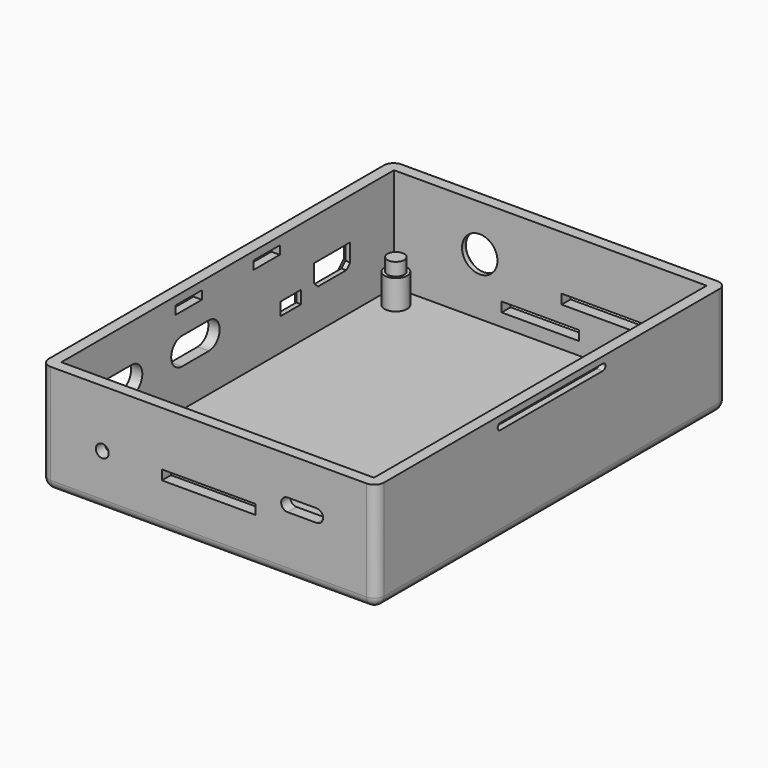
from build123d import *

# Parameters (mm, degrees)
SKETCH_W        = 52
SKETCH_H        = 68
PAD_DEPTH       = 17
SKETCH001_W     = 48.5
SKETCH001_H     = 64.5
POCKET_DEPTH    = 16
SKETCH002_R     = 1.75
PAD001_DEPTH    = 4.55
SKETCH003_R     = 1.3
PAD002_DEPTH    = 6.55
SKETCH004_W     = 4
SKETCH004_H     = 2
POCKET001_DEPTH = 5
POCKET002_DEPTH = 5
SKETCH006_R     = 2.75
SKETCH006_W     = 12
SKETCH006_H     = 1.5
SKETCH006_W_2   = 15
POCKET003_DEPTH = 5
SKETCH007_R     = 1
SKETCH007_W     = 14.5
SKETCH007_H     = 1.5
POCKET004_DEPTH = 5
POCKET006_DEPTH = 1
SKETCH008_W     = 5.1
SKETCH008_H     = 1.3
POCKET007_DEPTH = 1.3
CHAMFER_SIZE    = 1
FILLET_R        = 1.5


with BuildPart() as part:
    # Sketch → Pad (new body)
    with BuildSketch(Plane.XY):
        with Locations((24.25, 32.25)):
            Rectangle(SKETCH_W, SKETCH_H)
    extrude(amount=PAD_DEPTH)

    # Sketch001 → Pocket (cut)
    with BuildSketch(Plane.XY.offset(17)):
        with Locations((24.25, 32.25)):
            Rectangle(SKETCH001_W, SKETCH001_H)
    extrude(amount=-POCKET_DEPTH, mode=Mode.SUBTRACT)

    # Sketch002 (on Face11 of Pocket) → Pad001 (join)
    with BuildSketch(Plane.XY.offset(1)):
        with Locations((3.05, 3.05)):
            Circle(SKETCH002_R)
        with Locations((3.05, 61.05)):
            Circle(SKETCH002_R)
        with Locations((45.05, 3.05)):
            Circle(SKETCH002_R)
        with Locations((45.05, 61.05)):
            Circle(SKETCH002_R)
    extrude(amount=PAD001_DEPTH)

    # Sketch003 (on Face11 of Pad001) → Pad002 (join)
    with BuildSketch(Plane.XY.offset(1)):
        with Locations((3.05, 61.05)):
            Circle(SKETCH003_R)
        with Locations((45.05, 61.05)):
            Circle(SKETCH003_R)
        with Locations((3.05, 3.05)):
            Circle(SKETCH003_R)
        with Locations((45.05, 3.05)):
            Circle(SKETCH003_R)
    extrude(amount=PAD002_DEPTH)

    # Sketch004 (on Face2 of Pad002) → Pocket001 (cut)
    with BuildSketch(Plane(origin=(-1.75, 0, 0), x_dir=(0, -1, 0), z_dir=(-1, 0, 0))):
        with BuildLine():
            ThreePointArc((-28.6, 11.1), (-30.7, 9), (-28.6, 6.9))
            Line((-28.6, 6.9), (-23.4, 6.9))
            ThreePointArc((-23.4, 6.9), (-21.3, 9), (-23.4, 11.1))
            Line((-28.6, 11.1), (-23.4, 11.1))
        make_face()
        with BuildLine():
            ThreePointArc((-13.6, 11.1), (-15.7, 9), (-13.6, 6.9))
            Line((-13.6, 6.9), (-8.4, 6.9))
            ThreePointArc((-8.4, 6.9), (-6.3, 9), (-8.4, 11.1))
            Line((-13.6, 11.1), (-8.4, 11.1))
        make_face()
        with Locations((-44.5, 7)):
            Rectangle(SKETCH004_W, SKETCH004_H)
    extrude(amount=-POCKET001_DEPTH, mode=Mode.SUBTRACT)

    # Sketch005 (on Face2 of Pocket001) → Pocket002 (cut)
    with BuildSketch(Plane(origin=(-1.75, 0, 0), x_dir=(0, -1, 0), z_dir=(-1, 0, 0))):
        Polygon((-56, 10.6), (-49, 10.6), (-49, 7.85), (-49.75, 7.1), (-55.25, 7.1), (-56, 7.85), align=None)
    extrude(amount=-POCKET002_DEPTH, mode=Mode.SUBTRACT)

    # Sketch006 (on Face1 of Pocket002) → Pocket003 (cut)
    with BuildSketch(Plane(origin=(0, 66.25, 0), x_dir=(-1, 0, 0), z_dir=(0, 1, 0))):
        with Locations((-13.3, 9.85)):
            Circle(SKETCH006_R)
        with Locations((-22.7, 3.75)):
            Rectangle(SKETCH006_W, SKETCH006_H)
        with Locations((-33.5, 7.85)):
            Rectangle(SKETCH006_W_2, SKETCH006_H)
    extrude(amount=-POCKET003_DEPTH, mode=Mode.SUBTRACT)

    # Sketch007 (on Face15 of Pocket007) → Pocket004 (cut)
    with BuildSketch(Plane.XZ.offset(1.75)):
        with Locations((7.75, 8.1)):
            Circle(SKETCH007_R)
        with Locations((24.25, 7.85)):
            Rectangle(SKETCH007_W, SKETCH007_H)
        with BuildLine():
            ThreePointArc((36.5, 11.1), (35.5, 10.1), (36.5, 9.1))
            Line((36.5, 9.1), (41, 9.1))
            ThreePointArc((41, 9.1), (42, 10.1), (41, 11.1))
            Line((36.5, 11.1), (41, 11.1))
        make_face()
    extrude(amount=-POCKET004_DEPTH, mode=Mode.SUBTRACT)

    # Sketch009 → Pocket006 (cut)
    with BuildSketch(Plane.YZ.offset(50.25)):
        with BuildLine():
            Line((22.3, 16), (42.2, 16))
            ThreePointArc((42.2, 15), (42.7, 15.5), (42.2, 16))
            Line((42.2, 15), (22.3, 15))
            ThreePointArc((22.3, 16), (21.8, 15.5), (22.3, 15))
        make_face()
    extrude(amount=-POCKET006_DEPTH, mode=Mode.SUBTRACT)

    # Sketch008 (on Face34 of Pocket006) → Pocket007 (cut)
    with BuildSketch(Plane.YZ):
        with Locations((24.7, 15.1)):
            Rectangle(SKETCH008_W, SKETCH008_H)
        with Locations((39.8, 15.1)):
            Rectangle(SKETCH008_W, SKETCH008_H)
    extrude(amount=-POCKET007_DEPTH, mode=Mode.SUBTRACT)

    # Chamfer
    chamfer_edges = [part.edges().sort_by_distance(p)[0] for p in [
        (-1.75, 49.375, 7.475),
        (-1.75, 49, 9.225),
        (-1.75, 52.5, 10.6),
        (-1.75, 56, 9.225),
        (-1.75, 55.625, 7.475),
        (-1.75, 52.5, 7.1),
        (-1.75, 46.5, 7),
        (-1.75, 44.5, 8),
        (-1.75, 42.5, 7),
        (-1.75, 44.5, 6),
        (16.05, 66.25, 9.85),
    ]]
    chamfer(chamfer_edges, length=CHAMFER_SIZE)

    # Fillet
    fillet_edges = [part.edges().sort_by_distance(p)[0] for p in [
        (-1.75, 66.25, 8.5),
        (-1.75, 32.25, 0),
        (24.25, 66.25, 0),
        (-1.75, -1.75, 8.5),
        (24.25, -1.75, 0),
        (50.25, -1.75, 8.5),
        (50.25, 32.25, 0),
        (50.25, 66.25, 8.5),
    ]]
    fillet(fillet_edges, radius=FILLET_R)


solid = part.part
